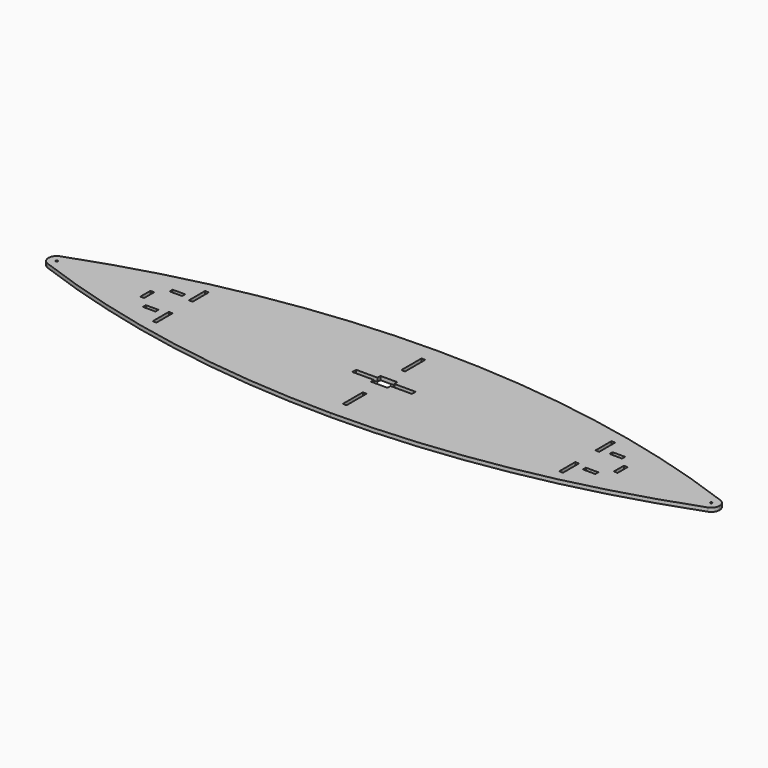
from build123d import *

# Parameters (mm, degrees)
F1_DEPTH  = 5.715
F4_DEPTH  = 5.716
F5_W      = 5.715
F5_H      = 38.1
F6_DEPTH  = 5.716
F7_W      = 5.715
F7_H      = 30.48
F8_DEPTH  = 5.716
F9_W      = 19.05
F9_H      = 5.715
F9_W_2    = 5.715
F9_H_2    = 19.05
F10_DEPTH = 5.716
F11_R     = 1.524
F12_DEPTH = 5.716


with BuildPart() as f1:
    # F0 (on Top) → F1 (new body)
    with BuildSketch(Plane.XY):
        with BuildLine():
            ThreePointArc((0, 101.6), (-253.851116, 78.999073), (-499.716688, 11.907261))
            ThreePointArc((-499.716688, 11.907261), (-505.725496, 7.252519), (-508, 0))
            ThreePointArc((-508, 0), (-505.725496, -7.252519), (-499.716688, -11.907261))
            ThreePointArc((-499.716688, -11.907261), (-253.851116, -78.999073), (0, -101.6))
            ThreePointArc((0, -101.6), (253.851116, -78.999073), (499.716688, -11.907261))
            ThreePointArc((499.716688, -11.907261), (505.725496, -7.252519), (508, 0))
            ThreePointArc((508, 0), (505.725496, 7.252519), (499.716688, 11.907261))
            ThreePointArc((499.716688, 11.907261), (253.851116, 78.999073), (0, 101.6))
        make_face()
    extrude(amount=F1_DEPTH)

    # F3 (on face) → F4 (cut, through all)
    with BuildSketch(Plane.XY.offset(5.715)):
        Polygon((-45.085, 3.556), (-45.085, 0), (-45.085, -3.556), (-12.7, -3.556), (-12.7, -9.271), (0, -9.271), (12.7, -9.271), (12.7, -3.556), (45.085, -3.556), (45.085, 0), (45.085, 3.556), (12.7, 3.556), (12.7, 9.271), (0, 9.271), (-12.7, 9.271), (-12.7, 3.556), align=None)
    extrude(amount=-F4_DEPTH, mode=Mode.SUBTRACT)

    # F5 (on face) → F6 (cut, through all)
    with BuildSketch(Plane.XY.offset(5.715)):
        with Locations((0, 55.4355)):
            Rectangle(F5_W, F5_H)
        with Locations((0, -55.4355)):
            Rectangle(F5_W, F5_H)
    extrude(amount=-F6_DEPTH, mode=Mode.SUBTRACT)

    # F7 (on face) → F8 (cut, through all)
    with BuildSketch(Plane.XY.offset(5.715)):
        with Locations((-307.6575, 34.29)):
            Rectangle(F7_W, F7_H)
        with Locations((-307.6575, -34.29)):
            Rectangle(F7_W, F7_H)
        with Locations((307.6575, -34.29)):
            Rectangle(F7_W, F7_H)
        with Locations((307.6575, 34.29)):
            Rectangle(F7_W, F7_H)
    extrude(amount=-F8_DEPTH, mode=Mode.SUBTRACT)

    # F9 (on face) → F10 (cut, through all)
    with BuildSketch(Plane.XY.offset(5.715)):
        with Locations((-332.994, 25.3365)):
            Rectangle(F9_W, F9_H)
        with Locations((-358.3305, 0)):
            Rectangle(F9_W_2, F9_H_2)
        with Locations((-332.994, -25.3365)):
            Rectangle(F9_W, F9_H)
        with Locations((332.994, -25.3365)):
            Rectangle(F9_W, F9_H)
        with Locations((358.3305, 0)):
            Rectangle(F9_W_2, F9_H_2)
        with Locations((332.994, 25.3365)):
            Rectangle(F9_W, F9_H)
    extrude(amount=-F10_DEPTH, mode=Mode.SUBTRACT)

    # F11 (on face) → F12 (cut, through all)
    with BuildSketch(Plane.XY.offset(5.715)):
        with Locations((-495.3, 0)):
            Circle(F11_R)
        with Locations((495.3, 0)):
            Circle(F11_R)
    extrude(amount=-F12_DEPTH, mode=Mode.SUBTRACT)


solid = f1.part
